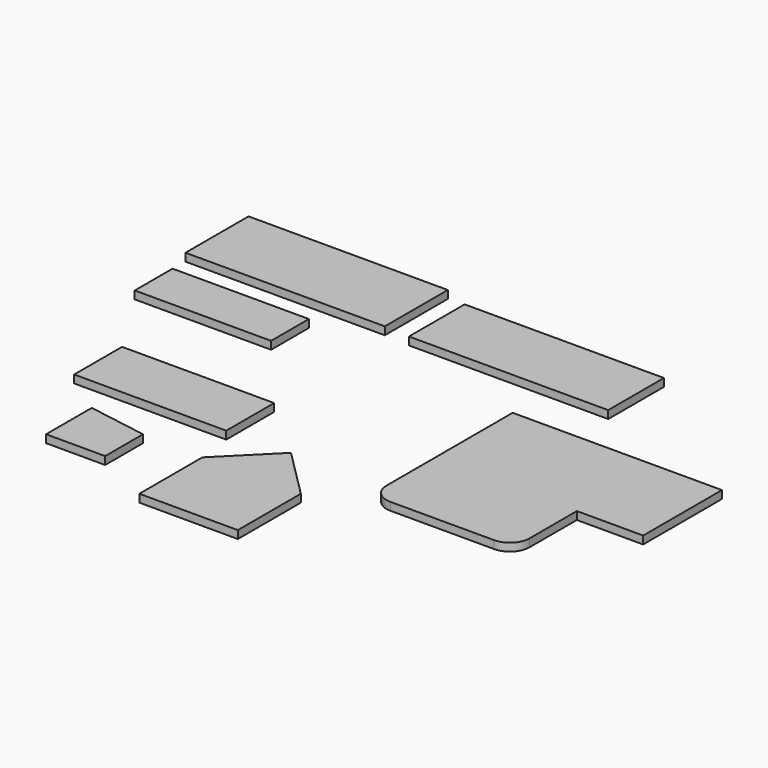
from build123d import *

# Parameters (mm, degrees)
F0_W      = 50.592
F0_H      = 20
F1_DEPTH  = 2
F2_W      = 34.612
F2_H      = 12
F3_DEPTH  = 2
F4_W      = 50.592
F4_H      = 17.678
F5_DEPTH  = 2
F7_DEPTH  = 2
F8_W      = 38.612
F8_H      = 15.207
F10_DEPTH = 2
F9_W      = 15
F9_H      = 12
F11_DEPTH = 2
F13_DEPTH = 2


with BuildPart() as f1:
    # F0 (on Top) → F1 (new body)
    with BuildSketch(Plane.XY):
        with Locations((-68.272908, 41.908363)):
            Rectangle(F0_W, F0_H)
    extrude(amount=F1_DEPTH)


with BuildPart() as f3:
    # F2 (on Top) → F3 (new body)
    with BuildSketch(Plane.XY):
        with Locations((-74.001385, 18.971444)):
            Rectangle(F2_W, F2_H)
    extrude(amount=F3_DEPTH)


with BuildPart() as f5:
    # F4 (on Top) → F5 (new body)
    with BuildSketch(Plane.XY):
        with Locations((-11.217898, 40.332941)):
            Rectangle(F4_W, F4_H)
    extrude(amount=F5_DEPTH)


with BuildPart() as f7:
    # F6 (on Top) → F7 (new body)
    with BuildSketch(Plane.XY):
        Polygon((53.125003, 18.769916), (0, 18.769916), (0, -6.230084), (36.293197, -6.230084), (53.125003, -6.230084), align=None)
        with BuildLine():
            Line((36.293197, -6.230084), (0, -6.230084))
            Line((0, -6.230084), (0, -21.230084))
            ThreePointArc((0, -21.230084), (1.464466, -24.765618), (5, -26.230084))
            Line((5, -26.230084), (31.293197, -26.230084))
            ThreePointArc((31.293197, -26.230084), (34.828731, -24.765618), (36.293197, -21.230084))
            Line((36.293197, -21.230084), (36.293197, -6.230084))
        make_face()
    extrude(amount=F7_DEPTH)


with BuildPart() as f10:
    # F8 (on Top) → F10 (new body)
    with BuildSketch(Plane.XY):
        with Locations((-58.845443, -15.100516)):
            Rectangle(F8_W, F8_H)
    extrude(amount=F10_DEPTH)


with BuildPart() as f11:
    # F9 (on Top) → F11 (new body)
    with BuildSketch(Plane.XY):
        Polygon((-66.470021, -31.714223), (-66.470021, -34.214223), (-51.470021, -34.214223), align=None)
        with Locations((-58.970021, -40.214223)):
            Rectangle(F9_W, F9_H)
    extrude(amount=F11_DEPTH)


with BuildPart() as f13:
    # F12 (on Top) → F13 (new body)
    with BuildSketch(Plane.XY):
        Polygon((-23.580812, -22.101955), (-36.080812, -34.601955), (-23.580812, -34.601955), (-11.080812, -34.601955), align=None)
        Polygon((-23.580812, -34.601955), (-36.080812, -34.601955), (-36.080812, -54.601955), (-11.080812, -54.601955), (-11.080812, -34.601955), align=None)
    extrude(amount=F13_DEPTH)


solid = Compound([f1.part, f3.part, f5.part, f7.part, f10.part, f11.part, f13.part])
